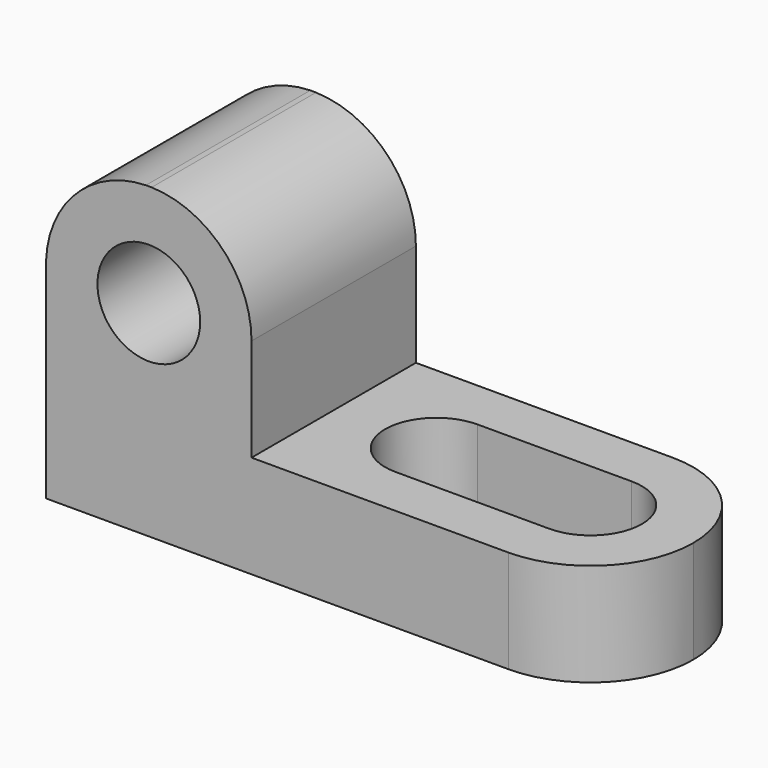
from build123d import *

# Parameters (mm, degrees)
F1_DEPTH = 25.4
F2_R     = 6.35
F3_DEPTH = 25.4
F5_DEPTH = 12.701


with BuildPart() as f1:
    # F0 (on Front) → F1 (new body)
    with BuildSketch(Plane.XZ):
        Polygon((-73.458533, 38.1), (-73.458533, 0), (-3.608533, 0), (-3.608533, 12.7), (-48.058533, 12.7), (-48.058533, 38.1), align=None)
    extrude(amount=F1_DEPTH)

    # F2 (on face) → F3 (cut)
    with BuildSketch(Plane.XZ.offset(25.4)):
        with Locations((-60.758533, 25.4)):
            Circle(F2_R)
        with BuildLine():
            ThreePointArc((-73.458533, 25.900673), (-69.6952, 34.435459), (-61.117531, 38.1))
            Line((-61.117531, 38.1), (-73.458533, 38.1))
            Line((-73.458533, 38.1), (-73.458533, 25.900673))
        make_face()
        with BuildLine():
            ThreePointArc((-60.409404, 38.1), (-51.655402, 34.25768), (-48.058533, 25.4))
            Line((-48.058533, 25.4), (-48.058533, 38.1))
            Line((-48.058533, 38.1), (-60.409404, 38.1))
        make_face()
    extrude(amount=-F3_DEPTH, mode=Mode.SUBTRACT)

    # F4 (on face) → F5 (cut, through all)
    with BuildSketch(Plane.XY.offset(12.7)):
        with BuildLine():
            ThreePointArc((-16.308533, -19.05), (-11.818405, -17.190128), (-9.958533, -12.7))
            ThreePointArc((-9.958533, -12.7), (-11.818405, -8.209872), (-16.308533, -6.35))
            ThreePointArc((-16.308533, -6.35), (-22.658533, -12.7), (-16.308533, -19.05))
        make_face()
        with BuildLine():
            ThreePointArc((-16.308533, -19.05), (-22.658533, -12.7), (-16.308533, -6.35))
            Line((-16.308533, -6.35), (-35.358533, -6.35))
            ThreePointArc((-35.358533, -6.35), (-30.868405, -8.209872), (-29.008533, -12.7))
            ThreePointArc((-29.008533, -12.7), (-30.868405, -17.190128), (-35.358533, -19.05))
            Line((-35.358533, -19.05), (-16.308533, -19.05))
        make_face()
        with BuildLine():
            ThreePointArc((-29.008533, -12.7), (-30.868405, -8.209872), (-35.358533, -6.35))
            ThreePointArc((-35.358533, -6.35), (-41.708533, -12.7), (-35.358533, -19.05))
            ThreePointArc((-35.358533, -19.05), (-30.868405, -17.190128), (-29.008533, -12.7))
        make_face()
        with BuildLine():
            ThreePointArc((-3.608533, -12.7), (-7.328277, -21.680256), (-16.308533, -25.4))
            Line((-16.308533, -25.4), (-3.608533, -25.4))
            Line((-3.608533, -25.4), (-3.608533, -12.7))
        make_face()
        with BuildLine():
            ThreePointArc((-16.308533, 0), (-7.328277, -3.719744), (-3.608533, -12.7))
            Line((-3.608533, -12.7), (-3.608533, 0))
            Line((-3.608533, 0), (-16.308533, 0))
        make_face()
    extrude(amount=-F5_DEPTH, mode=Mode.SUBTRACT)


solid = f1.part
